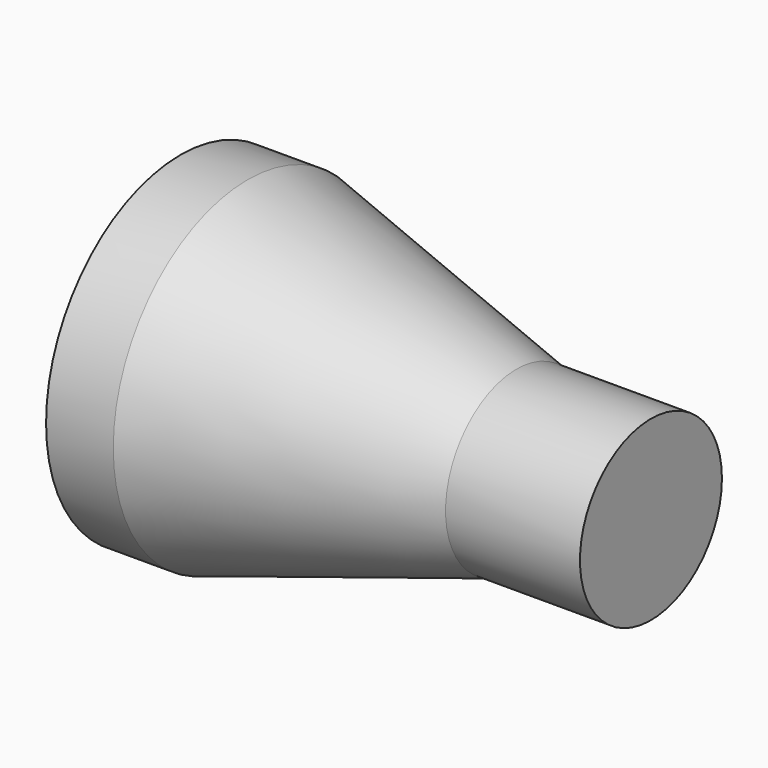
from build123d import *

# Parameters (mm, degrees)
F0_R      = 15.875
F1_DEPTH  = 6.35
F1_FACE_R = 15.875
F3_R      = 8.382
F5_R      = 8.382
F6_DEPTH  = 12.7


with BuildPart() as f1:
    # F0 (on Right) → F1 (new body)
    with BuildSketch(Plane.YZ):
        Circle(F0_R)
    extrude(amount=F1_DEPTH)

    # F1_face (on face) → F4 section 0
    with BuildSketch(Plane.YZ.offset(6.35)):
        Circle(F1_FACE_R)
    # F3 (on offset) → F4 section 1
    with BuildSketch(Plane.YZ.offset(31.75)):
        Circle(F3_R)
    loft()

    # F5 (on face) → F6 (join)
    with BuildSketch(Plane.YZ.offset(31.75)):
        Circle(F5_R)
    extrude(amount=F6_DEPTH)


solid = f1.part
